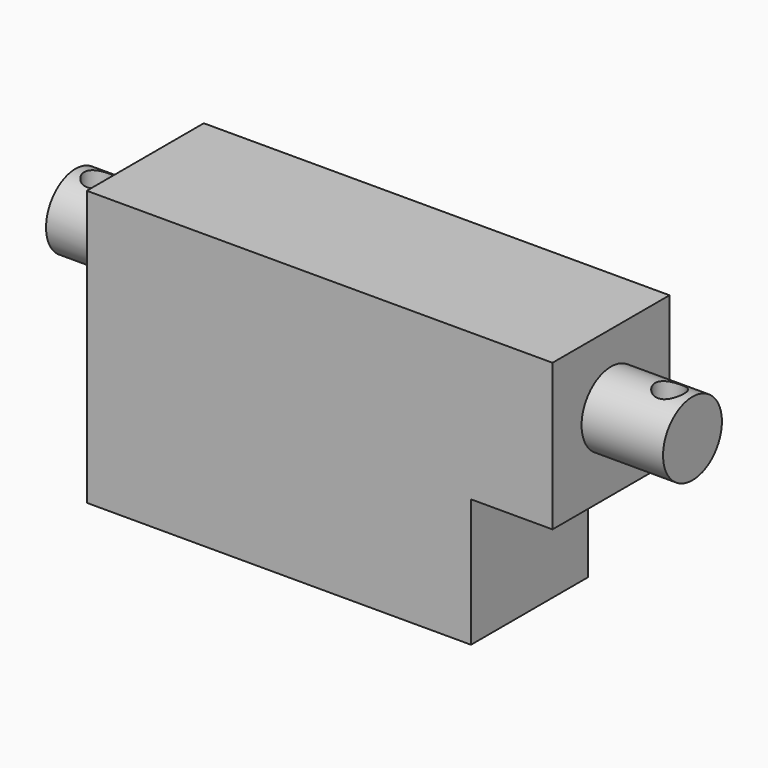
from build123d import *

# Parameters (mm, degrees)
F0_R          = 10.033
F1_DEPTH      = 168.275
F3_W          = 39.878
F3_H          = 74.93
F4_DEPTH      = 127
F5_W          = 39.878
F5_H          = 34.925
F6_DEPTH      = 22.225
F7_R          = 3.937
F8_DEPTH      = 19.051
F8_DEPTH_BACK = 55.881


with BuildPart() as f1:
    # F0 (on Right) → F1 (new body)
    with BuildSketch(Plane.YZ):
        Circle(F0_R)
    extrude(amount=F1_DEPTH)

    # F3 (on offset) → F4 (join)
    with BuildSketch(Plane.YZ.offset(19.05)):
        with Locations((0, -18.415)):
            Rectangle(F3_W, F3_H)
    extrude(amount=F4_DEPTH)

    # F5 (on face) → F6 (cut)
    with BuildSketch(Plane.YZ.offset(146.05)):
        with Locations((0, -38.4175)):
            Rectangle(F5_W, F5_H)
    extrude(amount=-F6_DEPTH, mode=Mode.SUBTRACT)

    # F7 (on Top) → F8 (cut, two sides)
    with BuildSketch(Plane.XY) as f8_sk:
        with Locations((6.35, 0)):
            Circle(F7_R)
        with Locations((162.052, 0)):
            Circle(F7_R)
    extrude(amount=F8_DEPTH, mode=Mode.SUBTRACT)
    extrude(f8_sk.sketch, amount=-F8_DEPTH_BACK, mode=Mode.SUBTRACT)


solid = f1.part
